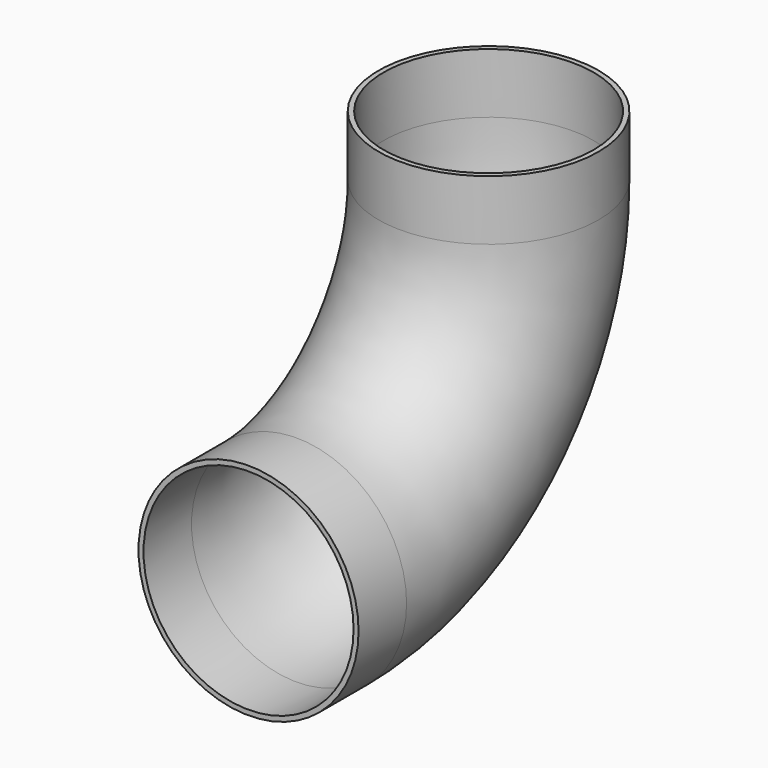
from build123d import *

# Parameters (mm, degrees)
F0_R   = 55
F0_R_2 = 52.5


with BuildPart() as f2:
    # F2: sweep along a path in F1
    with BuildLine(Plane.YZ) as f2_path:
        Line((0, 0), (30, 0))
        ThreePointArc((30, 0), (114.852814, 35.147186), (150, 120))
        Line((150, 120), (150, 150))
    # F0 (on Front) → F2 (sweep)
    with BuildSketch(Plane.XZ):
        Circle(F0_R)
        Circle(F0_R_2, mode=Mode.SUBTRACT)
    sweep(path=f2_path.line)


solid = f2.part
